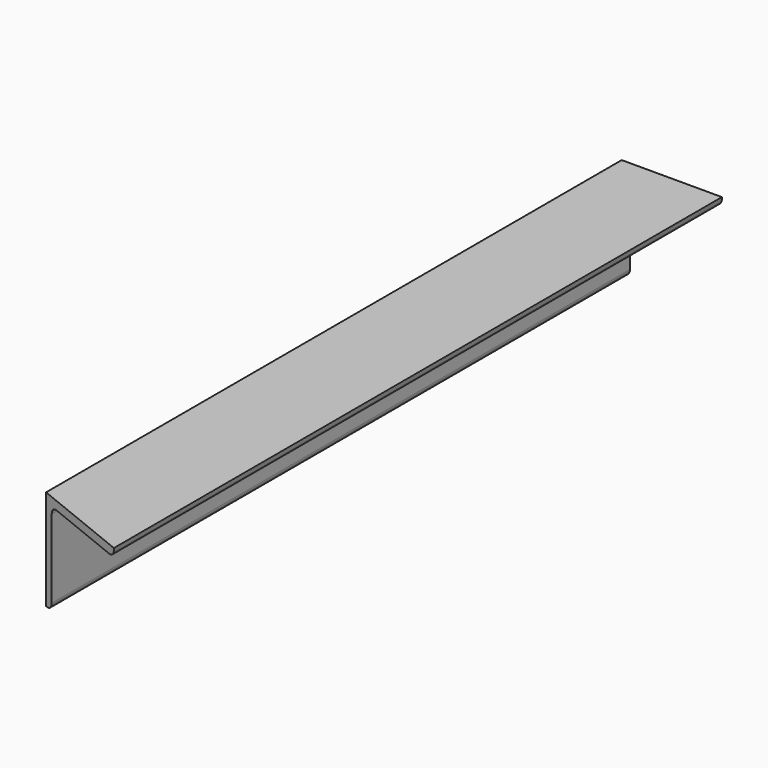
from build123d import *

# Parameters (mm, degrees)
F1_DEPTH = 577.85
F2_R     = 5.08
F4_DEPTH = 76.2


with BuildPart() as f1:
    # F0 (on Front) → F1 (new body)
    with BuildSketch(Plane.XZ):
        Polygon((-38.1, -38.1), (-31.75, -38.1), (-31.75, 31.75), (38.1, 31.75), (38.1, 38.1), (-38.1, 38.1), align=None)
    extrude(amount=F1_DEPTH)

    # F2
    f2_edges = [f1.edges().sort_by_distance(p)[0] for p in [
        (-31.75, -288.925, 31.75),
        (38.1, -288.925, 31.75),
        (-31.75, -288.925, -38.1),
    ]]
    fillet(f2_edges, radius=F2_R)

    # F3 (on face) → F4 (cut)
    with BuildSketch(Plane.XY.offset(38.1)):
        Polygon((-38.1, -577.85), (38.1, -577.85), (-38.1, -547.063202), align=None)
    extrude(amount=-F4_DEPTH, mode=Mode.SUBTRACT)


solid = f1.part
